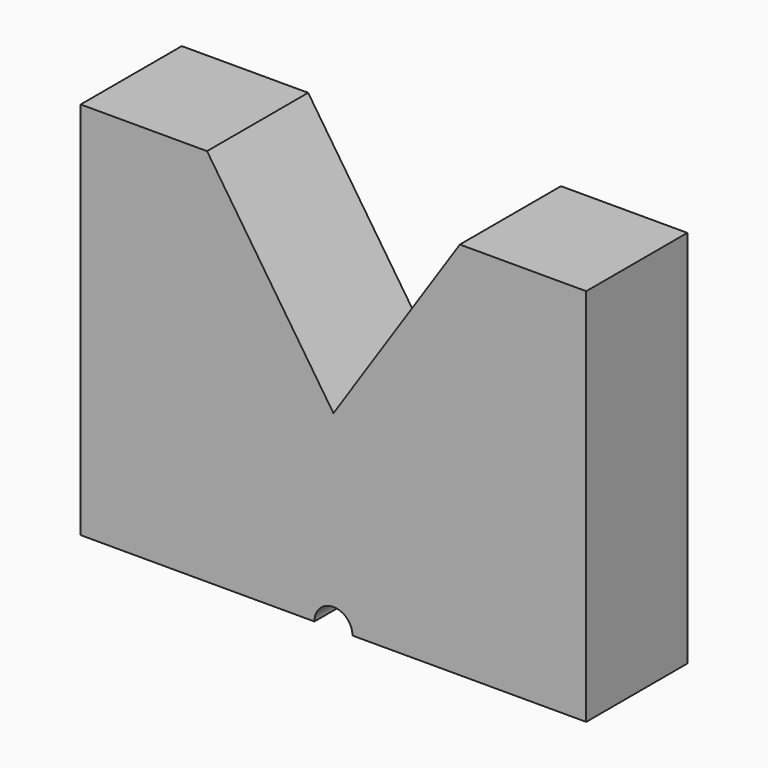
from build123d import *

# Parameters (mm, degrees)
F1_DEPTH = 25.4


with BuildPart() as f1:
    # F0 (on Front) → F1 (new body)
    with BuildSketch(Plane.XZ):
        with BuildLine():
            ThreePointArc((-1.399396, -52.561096), (2.42387, -48.73783), (6.247136, -52.561096))
            Line((6.247136, -52.561096), (53.22387, -52.561096))
            Line((53.22387, -52.561096), (53.22387, 23.638904))
            Line((53.22387, 23.638904), (27.82387, 23.638904))
            Line((27.82387, 23.638904), (2.42387, -14.461096))
            Line((2.42387, -14.461096), (-22.97613, 23.638904))
            Line((-22.97613, 23.638904), (-48.37613, 23.638904))
            Line((-48.37613, 23.638904), (-48.37613, -52.561096))
            Line((-48.37613, -52.561096), (-1.399396, -52.561096))
        make_face()
    extrude(amount=F1_DEPTH)


solid = f1.part
